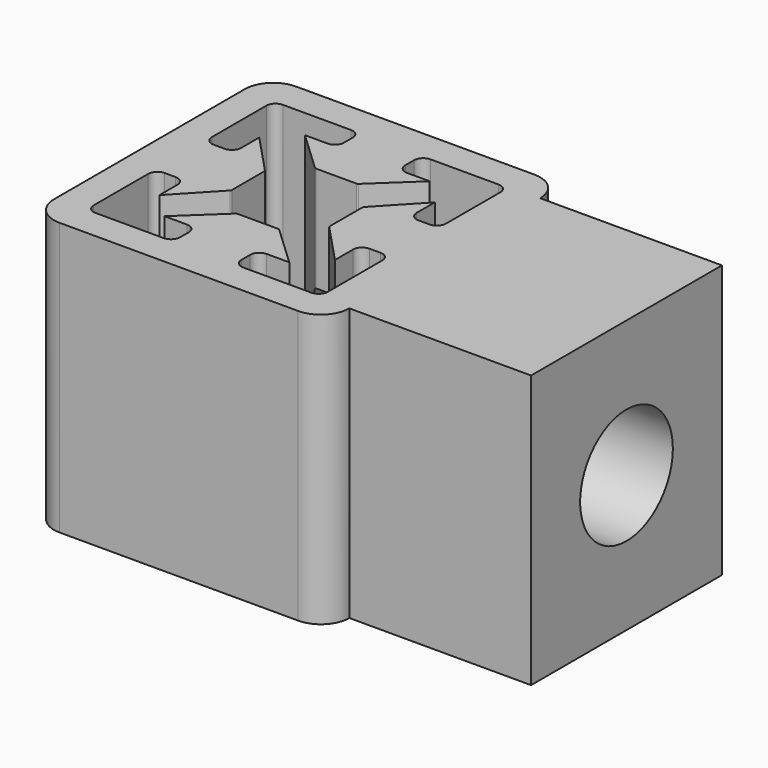
from build123d import *

# Parameters (mm, degrees)
F1_DEPTH  = 6
F3_DEPTH  = 10
F4_W      = 10.5
F4_H      = 12
F4_R      = 2.55
F5_DEPTH  = 8
F1_FACE_R = 2.55
F6_DEPTH  = 8.6566


with BuildPart() as f1:
    # F0 (on Top) → F1 (new body, symmetric)
    with BuildSketch(Plane.XY):
        with BuildLine():
            Line((6.5, -5.25), (6.5, 5.25))
            ThreePointArc((6.5, 5.25), (6.133883, 6.133883), (5.25, 6.5))
            Line((5.25, 6.5), (-5.25, 6.5))
            ThreePointArc((-5.25, 6.5), (-6.133883, 6.133883), (-6.5, 5.25))
            Line((-6.5, 5.25), (-6.5, -5.25))
            ThreePointArc((-6.5, -5.25), (-6.133883, -6.133883), (-5.25, -6.5))
            Line((-5.25, -6.5), (5.25, -6.5))
            ThreePointArc((5.25, -6.5), (6.133883, -6.133883), (6.5, -5.25))
        make_face()
    extrude(amount=F1_DEPTH, both=True)

    # F2 (on Top) → F3 (cut, symmetric)
    with BuildSketch(Plane.XY):
        with BuildLine():
            ThreePointArc((0.889914, -2.1566), (0.928239, -2.163918), (0.961171, -2.184843))
            Line((0.961171, -2.184843), (2.745753, -3.863205))
            Line((2.745753, -3.863205), (1.752595, -3.863205))
            ThreePointArc((1.752595, -3.863205), (1.466924, -3.981534), (1.348595, -4.267205))
            Line((1.348595, -4.267205), (1.348595, -4.749805))
            ThreePointArc((1.348595, -4.749805), (1.466924, -5.035476), (1.752595, -5.153805))
            Line((1.752595, -5.153805), (4.749795, -5.153805))
            ThreePointArc((4.749795, -5.153805), (5.035466, -5.035476), (5.153795, -4.749805))
            Line((5.153795, -4.749805), (5.153795, -1.752605))
            ThreePointArc((5.153795, -1.752605), (5.035471, -1.466932), (4.749802, -1.348599))
            Line((4.749802, -1.348599), (4.267202, -1.348599))
            ThreePointArc((4.267202, -1.348599), (3.981531, -1.466927), (3.863202, -1.752599))
            Line((3.863202, -1.752599), (3.863202, -2.745756))
            Line((3.863202, -2.745756), (2.184831, -0.961164))
            ThreePointArc((2.184831, -0.961164), (2.163912, -0.928237), (2.156595, -0.889919))
            Line((2.156595, -0.889919), (2.156595, 0.889909))
            ThreePointArc((2.156595, 0.889909), (2.163912, 0.928229), (2.184834, 0.961157))
            Line((2.184834, 0.961157), (3.863202, 2.745746))
            Line((3.863202, 2.745746), (3.863202, 1.752589))
            ThreePointArc((3.863202, 1.752589), (3.981531, 1.466917), (4.267202, 1.348589))
            Line((4.267202, 1.348589), (4.749802, 1.348589))
            ThreePointArc((4.749802, 1.348589), (5.035473, 1.466917), (5.153802, 1.752589))
            Line((5.153802, 1.752589), (5.153802, 4.749789))
            ThreePointArc((5.153802, 4.749789), (5.035477, 5.035475), (4.749794, 5.153807))
            Line((4.749794, 5.153807), (1.752594, 5.153807))
            ThreePointArc((1.752594, 5.153807), (1.466922, 5.035478), (1.348594, 4.749807))
            Line((1.348594, 4.749807), (1.348594, 4.267207))
            ThreePointArc((1.348594, 4.267207), (1.466922, 3.981536), (1.752594, 3.863207))
            Line((1.752594, 3.863207), (2.745751, 3.863207))
            Line((2.745751, 3.863207), (0.961159, 2.184836))
            ThreePointArc((0.961159, 2.184836), (0.928232, 2.163916), (0.889914, 2.1566))
            Line((0.889914, 2.1566), (-0.889914, 2.1566))
            ThreePointArc((-0.889914, 2.1566), (-0.928238, 2.163918), (-0.961169, 2.184841))
            Line((-0.961169, 2.184841), (-2.745757, 3.863209))
            Line((-2.745757, 3.863209), (-1.7526, 3.863209))
            ThreePointArc((-1.7526, 3.863209), (-1.466929, 3.981538), (-1.3486, 4.267209))
            Line((-1.3486, 4.267209), (-1.3486, 4.749809))
            ThreePointArc((-1.3486, 4.749809), (-1.466937, 5.035473), (-1.752607, 5.153794))
            Line((-1.752607, 5.153794), (-4.749807, 5.153794))
            ThreePointArc((-4.749807, 5.153794), (-5.035478, 5.035465), (-5.153807, 4.749794))
            Line((-5.153807, 4.749794), (-5.153807, 1.752594))
            ThreePointArc((-5.153807, 1.752594), (-5.035478, 1.466922), (-4.749807, 1.348594))
            Line((-4.749807, 1.348594), (-4.267207, 1.348594))
            ThreePointArc((-4.267207, 1.348594), (-3.981536, 1.466922), (-3.863207, 1.752594))
            Line((-3.863207, 1.752594), (-3.863207, 2.745751))
            Line((-3.863207, 2.745751), (-2.184836, 0.961159))
            ThreePointArc((-2.184836, 0.961159), (-2.163916, 0.928232), (-2.1566, 0.889914))
            Line((-2.1566, 0.889914), (-2.1566, -0.889914))
            ThreePointArc((-2.1566, -0.889914), (-2.163918, -0.928238), (-2.184841, -0.961169))
            Line((-2.184841, -0.961169), (-3.863209, -2.745757))
            Line((-3.863209, -2.745757), (-3.863209, -1.7526))
            ThreePointArc((-3.863209, -1.7526), (-3.981538, -1.466929), (-4.267209, -1.3486))
            Line((-4.267209, -1.3486), (-4.749809, -1.3486))
            ThreePointArc((-4.749809, -1.3486), (-5.035481, -1.466929), (-5.153809, -1.7526))
            Line((-5.153809, -1.7526), (-5.153809, -4.7498))
            ThreePointArc((-5.153809, -4.7498), (-5.035481, -5.035471), (-4.749809, -5.1538))
            Line((-4.749809, -5.1538), (-1.752609, -5.1538))
            ThreePointArc((-1.752609, -5.1538), (-1.466938, -5.035471), (-1.348609, -4.7498))
            Line((-1.348609, -4.7498), (-1.348609, -4.2672))
            ThreePointArc((-1.348609, -4.2672), (-1.466935, -3.981539), (-1.752594, -3.863207))
            Line((-1.752594, -3.863207), (-2.745751, -3.863207))
            Line((-2.745751, -3.863207), (-0.961159, -2.184836))
            ThreePointArc((-0.961159, -2.184836), (-0.928232, -2.163916), (-0.889914, -2.1566))
            Line((-0.889914, -2.1566), (0.889914, -2.1566))
        make_face()
    extrude(amount=F3_DEPTH, both=True, mode=Mode.SUBTRACT)

    # F4 (on face) → F5 (join)
    with BuildSketch(Plane.YZ.offset(6.5)):
        Rectangle(F4_W, F4_H)
        Circle(F4_R, mode=Mode.SUBTRACT)
    extrude(amount=F5_DEPTH)

    # F1_face (on face) → F6 (cut, through all)
    with BuildSketch(Plane.YZ.offset(6.5)):
        Circle(F1_FACE_R)
    extrude(amount=-F6_DEPTH, mode=Mode.SUBTRACT)


solid = f1.part
